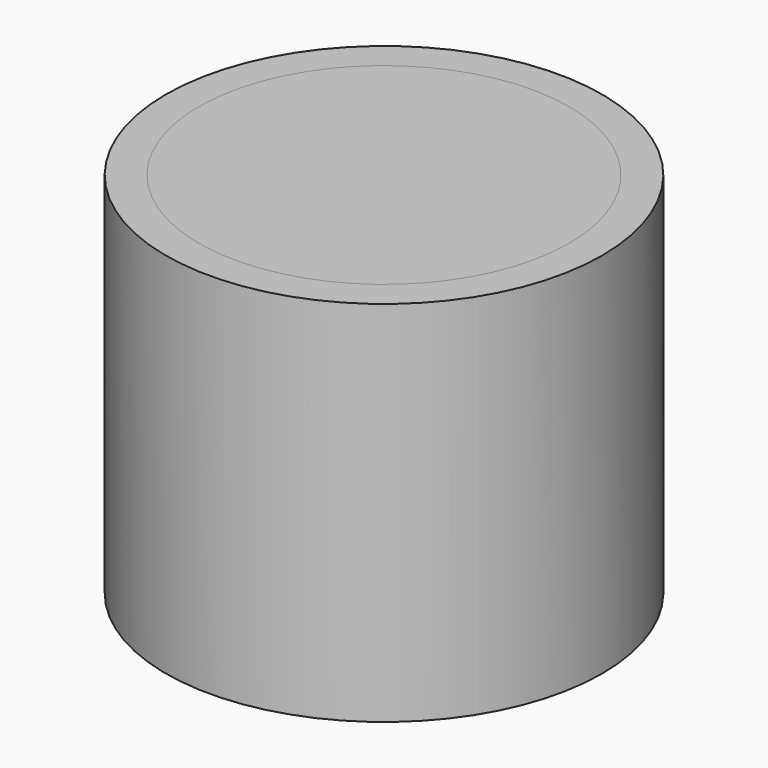
from build123d import *

# Parameters (mm, degrees)
F0_R     = 52.2410881723
F2_DEPTH = 88.138
F1_R     = 44.3215662199


with BuildPart() as f2:
    # F0 (on Top) → F2 (new body)
    with BuildSketch(Plane.XY):
        Circle(F0_R)
    extrude(amount=F2_DEPTH)


with BuildPart() as f2b:
    # F1 (on Top) → F2, piece 2 (new body)
    with BuildSketch(Plane.XY):
        Circle(F1_R)
    extrude(amount=F2_DEPTH)


solid = Compound([f2.part, f2b.part])
